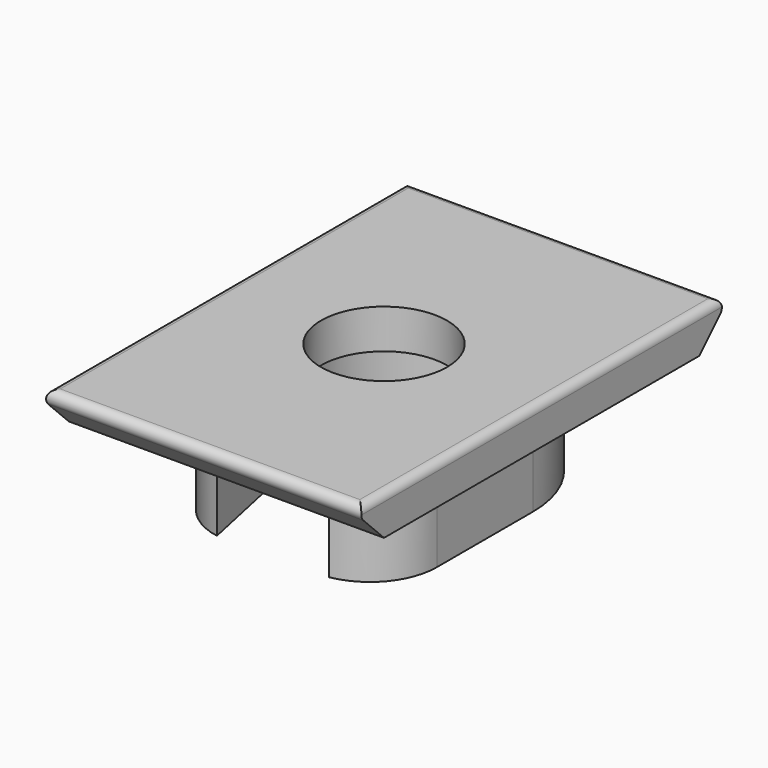
from build123d import *

# Parameters (mm, degrees)
PAD032_DEPTH         = 10
PAD033_DEPTH         = 2.5
PAD033_DEPTH_BACK    = 4.3
FILLET011_R          = 0.5
FILLET012_R          = 1
SKETCH084_R          = 4
POCKET025_DEPTH      = 4.3010001
POCKET025_DEPTH_BACK = 4.001


with BuildPart() as part:
    # Sketch070 → Pad032 (new body, symmetric)
    with BuildSketch(Plane.YZ):
        Polygon((-12.5, 1.5), (12.5, 1.5), (15, 4), (-15, 4), align=None)
    extrude(amount=PAD032_DEPTH, both=True)

    # Sketch071 → Pad033 (join, two sides)
    with BuildSketch(Plane(origin=(0, 3, 0), x_dir=(1, 0, 0), z_dir=(0, 0, 1))) as pad033_sk:
        with BuildLine():
            ThreePointArc((7.05, 0), (0, 7.05), (-7.05, 0))
            Line((-7.05, 0), (-7.05, -7.61826472))
            ThreePointArc((-7.05, -7.61826472), (-6.0624282805, -10.3420602319), (-3.5586767903, -11.8))
            Line((-3.5586767903, -11.8), (-5.8181698251, -1.2455520409))
            ThreePointArc((5.8181698251, -1.2455520409), (0, 5.95), (-5.8181698251, -1.2455520409))
            Line((3.5586767903, -11.8), (5.8181698251, -1.2455520409))
            ThreePointArc((3.5586767903, -11.8), (6.0624283063, -10.342060201), (7.05, -7.6182646394))
            Line((7.05, 0), (7.05, -7.6182646394))
        make_face()
    extrude(amount=PAD033_DEPTH)
    extrude(pad033_sk.sketch, amount=-PAD033_DEPTH_BACK)

    # Fillet011
    fillet011_edges = [part.edges().sort_by_distance(p)[0] for p in [
        (0, 15, 4),
        (0, -15, 4),
        (-10, 0, 4),
        (10, 0, 4),
    ]]
    fillet(fillet011_edges, radius=FILLET011_R)

    # Fillet012
    fillet012_edges = [part.edges().sort_by_distance(p)[0] for p in [
        (0, 8.95, 1.5),
    ]]
    fillet(fillet012_edges, radius=FILLET012_R)

    # Sketch084 → Pocket025 (cut, two sides)
    with BuildSketch(Plane.XY) as pocket025_sk:
        Circle(SKETCH084_R)
    extrude(amount=-POCKET025_DEPTH, mode=Mode.SUBTRACT)
    extrude(pocket025_sk.sketch, amount=POCKET025_DEPTH_BACK, mode=Mode.SUBTRACT)


with BuildPart() as part_1:
    # Body023 placement: moved
    add(part.part.moved(Location((0, -2, 2.5))))


solid = part_1.part
